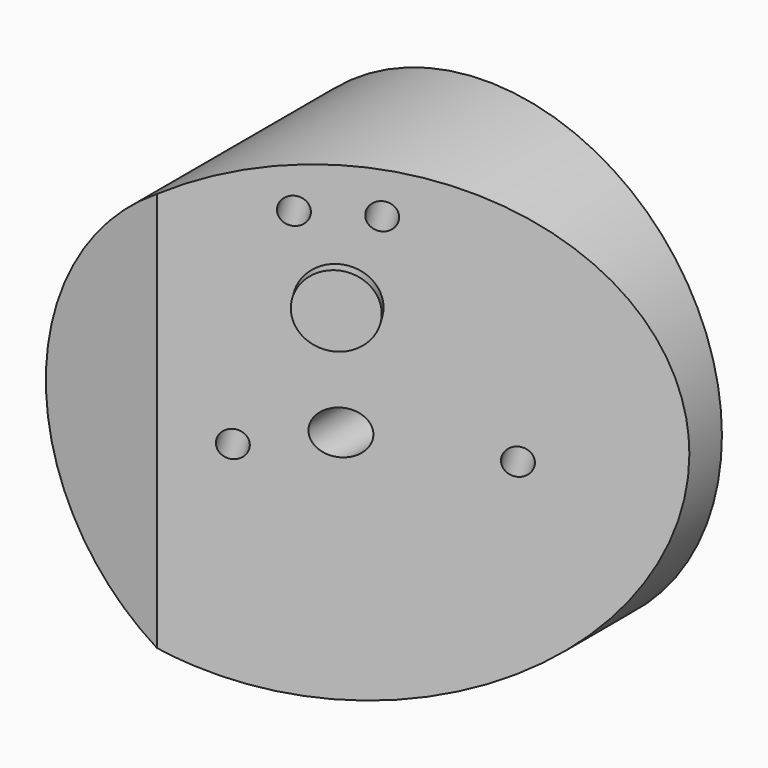
from build123d import *

# Parameters (mm, degrees)
PAD_DEPTH    = 25
SKETCH003_R  = 1.25
POCKET_DEPTH = 10
SKETCH004_R  = 3.35
PAD001_DEPTH = 1


with BuildPart() as pad:
    # Sketch002 → Pad (new body, symmetric)
    with BuildSketch(Plane.XY):
        Polygon((25, 13), (-11.6141486117, -9), (25, -9), align=None)
    extrude(amount=PAD_DEPTH, both=True)


with BuildPart() as pad001:
    # Sketch001 → Revolution001 (revolve)
    with BuildSketch(Plane.XY):
        Polygon((0, -9), (0, -5), (2.05, -5), (2.05, 15), (22, 15), (22, -9), align=None)
    revolve(axis=Axis((0, 0, 0), (0, 1, 0)))

    # Cut: cut Pad
    add(pad.part, mode=Mode.SUBTRACT)

    # Sketch003 → Pocket (cut)
    with BuildSketch(Plane(origin=(0.8924461116, -1.4852797526, 0), x_dir=(0.8571673007, 0.5150380749, 0), z_dir=(0.5150380749, -0.8571673007, 0))):
        with Locations((-4.5, 18)):
            Circle(SKETCH003_R)
        with Locations((2, 18)):
            Circle(SKETCH003_R)
        with Locations((12, -1.5)):
            Circle(SKETCH003_R)
        with Locations((-9, -1.5)):
            Circle(SKETCH003_R)
    extrude(amount=-POCKET_DEPTH, mode=Mode.SUBTRACT)

    # Sketch004 → Pad001 (new body)
    with BuildSketch(Plane(origin=(0.8924461116, -1.4852797526, 0), x_dir=(0.8571673007, 0.5150380749, 0), z_dir=(0.5150380749, -0.8571673007, 0))):
        with Locations((-1.25, 10.5)):
            Circle(SKETCH004_R)
    extrude(amount=PAD001_DEPTH)


solid = pad001.part
